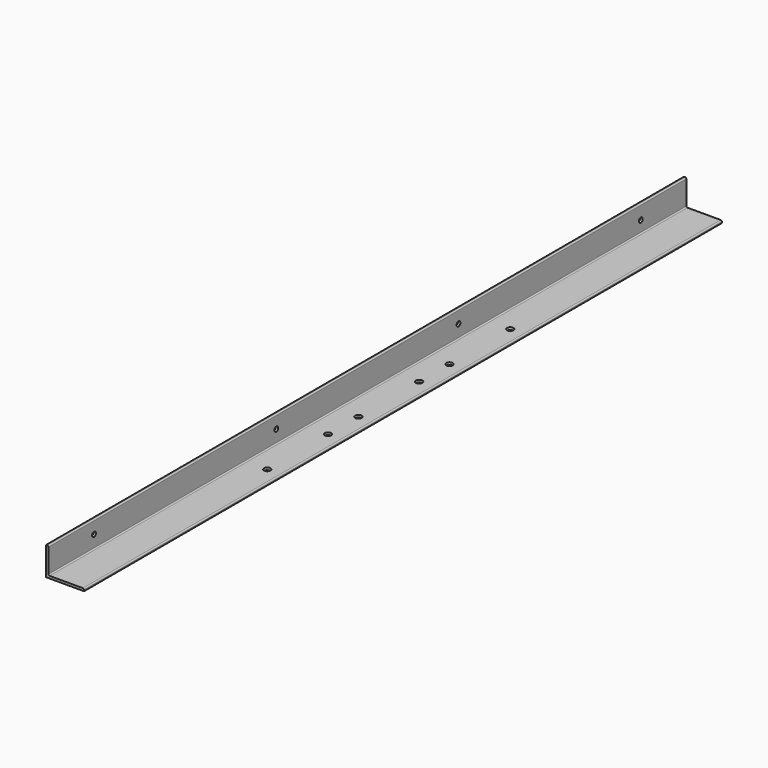
from build123d import *

# Parameters (mm, degrees)
F1_DEPTH = 1066.8
F2_R     = 8.73125
F3_DEPTH = 76.201
F4_R     = 6.35
F5_DEPTH = 101.601


with BuildPart() as f1:
    # F0 (on Front) → F1 (new body, symmetric)
    with BuildSketch(Plane.XZ):
        with BuildLine():
            Line((3.175, 76.2), (0, 76.2))
            Line((0, 76.2), (0, 0))
            Line((0, 0), (101.6, 0))
            Line((101.6, 0), (101.6, 3.175))
            ThreePointArc((101.6, 3.175), (100.6700640303, 5.4200640303), (98.425, 6.35))
            Line((98.425, 6.35), (9.525, 6.35))
            ThreePointArc((9.525, 6.35), (7.2799359697, 7.2799359697), (6.35, 9.525))
            Line((6.35, 9.525), (6.35, 73.025))
            ThreePointArc((6.35, 73.025), (5.4200640303, 75.2700640303), (3.175, 76.2))
        make_face()
    extrude(amount=F1_DEPTH, both=True)

    # F2 (on face) → F3 (cut, through all)
    with BuildSketch(Plane(origin=(0, 0, 0), x_dir=(1, 0, 0), z_dir=(0, 0, -1))):
        with Locations((63.5, -203.2)):
            Circle(F2_R)
        with Locations((63.5, -406.4)):
            Circle(F2_R)
        with Locations((63.5, -101.6)):
            Circle(F2_R)
        with Locations((63.5, 101.6)):
            Circle(F2_R)
        with Locations((63.5, 203.2)):
            Circle(F2_R)
        with Locations((63.5, 406.4)):
            Circle(F2_R)
    extrude(amount=-F3_DEPTH, mode=Mode.SUBTRACT)

    # F4 (on face) → F5 (cut, through all)
    with BuildSketch(Plane(origin=(0, 0, 0), x_dir=(0, -1, 0), z_dir=(-1, 0, 0))):
        with Locations((-304.8, 41.275)):
            Circle(F4_R)
        with Locations((304.8, 41.275)):
            Circle(F4_R)
        with Locations((-914.4, 38.1)):
            Circle(F4_R)
        with Locations((914.4, 41.275)):
            Circle(F4_R)
    extrude(amount=-F5_DEPTH, mode=Mode.SUBTRACT)


solid = f1.part
